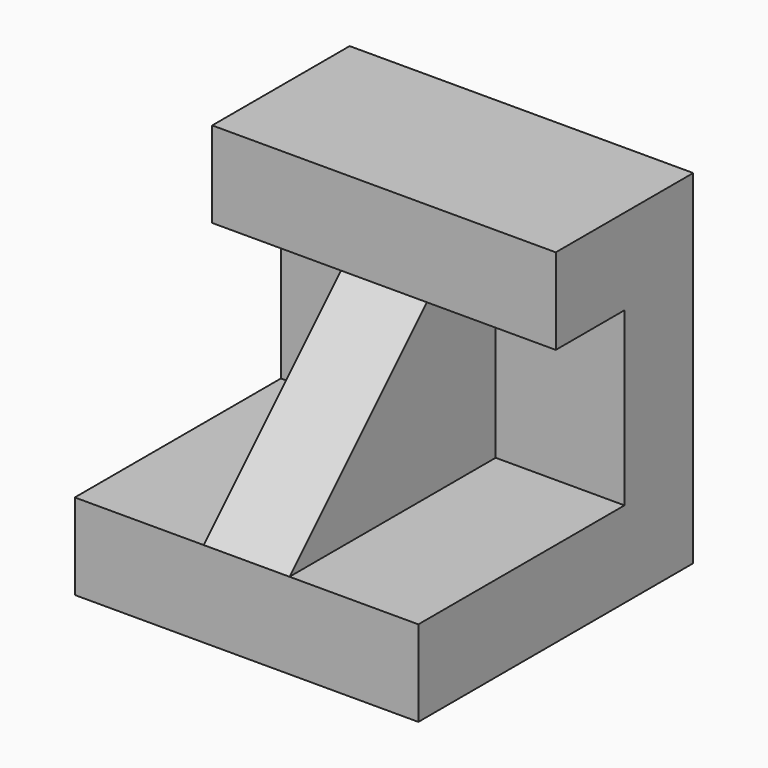
from build123d import *

# Parameters (mm, degrees)
F1_DEPTH = 101.6
F2_W     = 25.4
F2_H     = 50.8
F3_DEPTH = 76.2
F5_DEPTH = 25.4


with BuildPart() as f1:
    # F0 (on Right) → F1 (new body)
    with BuildSketch(Plane.YZ):
        Polygon((0, -25.4), (0, 0), (0, 76.2), (-50.8, 76.2), (-50.8, 50.8), (-25.4, 50.8), (-25.4, 0), (-101.6, 0), (-101.6, -25.4), align=None)
    extrude(amount=F1_DEPTH)

    # F2 (on face) → F3 (join)
    with BuildSketch(Plane.XZ.offset(25.4)):
        with Locations((50.8, 25.4)):
            Rectangle(F2_W, F2_H)
    extrude(amount=F3_DEPTH)

    # F4 (on face) → F5 (cut)
    with BuildSketch(Plane(origin=(38.1, 0, 0), x_dir=(0, -1, 0), z_dir=(-1, 0, 0))):
        Polygon((101.6, 50.8), (50.8, 50.8), (101.6, 0), align=None)
    extrude(amount=-F5_DEPTH, mode=Mode.SUBTRACT)


solid = f1.part
